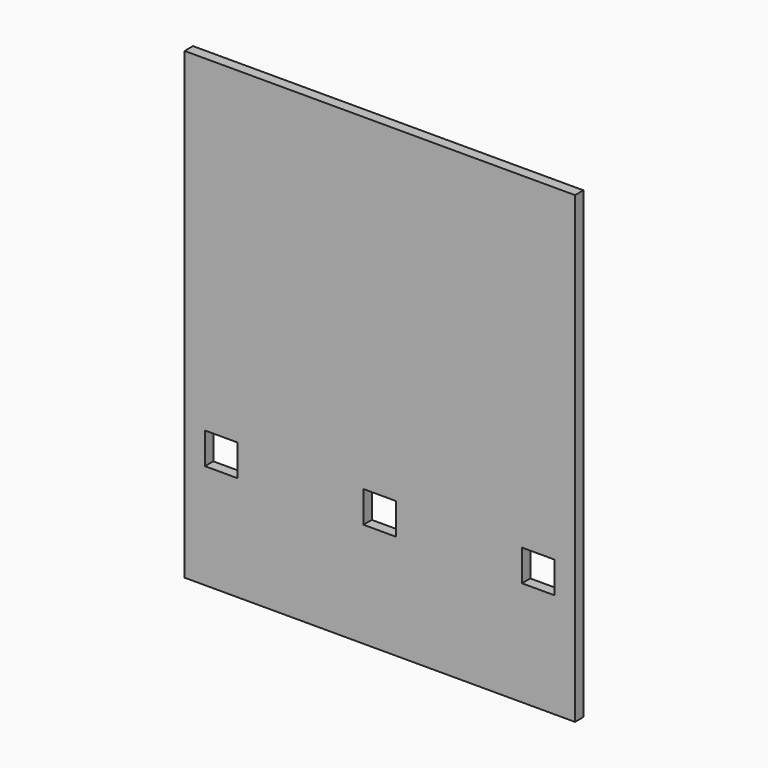
from build123d import *

# Parameters (mm, degrees)
F0_W          = 149
F0_H          = 177
F0_W_2        = 12.5
F0_H_2        = 12
F1_DEPTH      = 2
F1_DEPTH_BACK = 2


with BuildPart() as f1:
    # F0 (on Front) → F1 (new body, two sides)
    with BuildSketch(Plane.XZ) as f1_sk:
        Rectangle(F0_W, F0_H)
        with Locations((-60.5, -42.5)):
            Rectangle(F0_W_2, F0_H_2, mode=Mode.SUBTRACT)
        with Locations((0, -42.5)):
            Rectangle(F0_W_2, F0_H_2, mode=Mode.SUBTRACT)
        with Locations((60.5, -42.5)):
            Rectangle(F0_W_2, F0_H_2, mode=Mode.SUBTRACT)
    extrude(amount=F1_DEPTH)
    extrude(f1_sk.sketch, amount=-F1_DEPTH_BACK)


solid = f1.part
